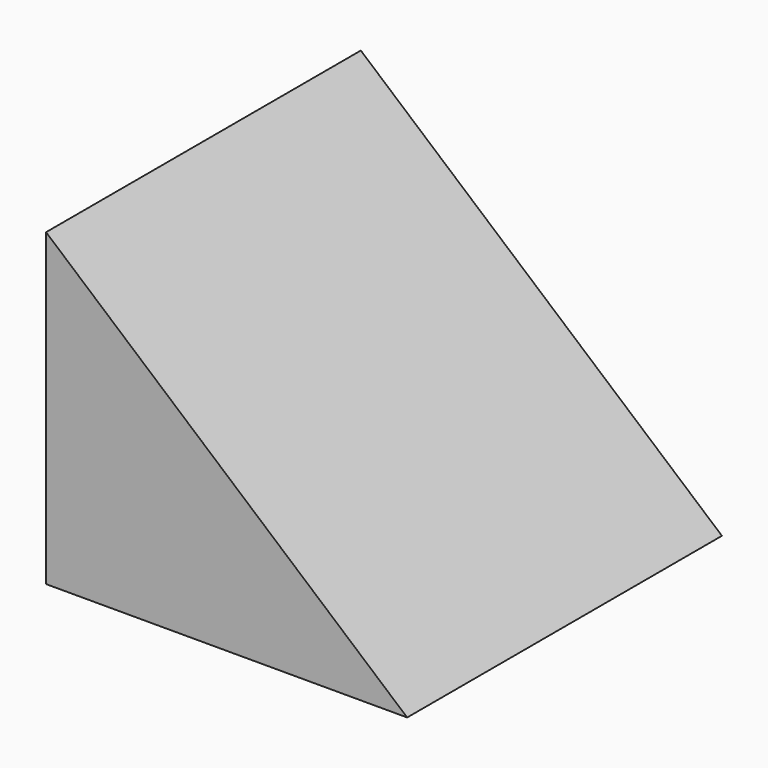
from build123d import *

# Parameters (mm, degrees)
F1_DEPTH = 25.4
F3_DEPTH = 25.4


with BuildPart() as f1:
    # F0 (on Front) → F1 (new body)
    with BuildSketch(Plane.XZ):
        Polygon((15.829317, 0), (-30.795215, 40.005002), (-30.795215, 0), align=None)
    extrude(amount=F1_DEPTH)

    # F2 (on face) → F3 (join)
    with BuildSketch(Plane(origin=(0, 0, 0), x_dir=(-1, 0, 0), z_dir=(0, 1, 0))):
        Polygon((30.795215, 0), (30.795215, 40.005002), (-15.829317, 0), align=None)
    extrude(amount=F3_DEPTH)


solid = f1.part
